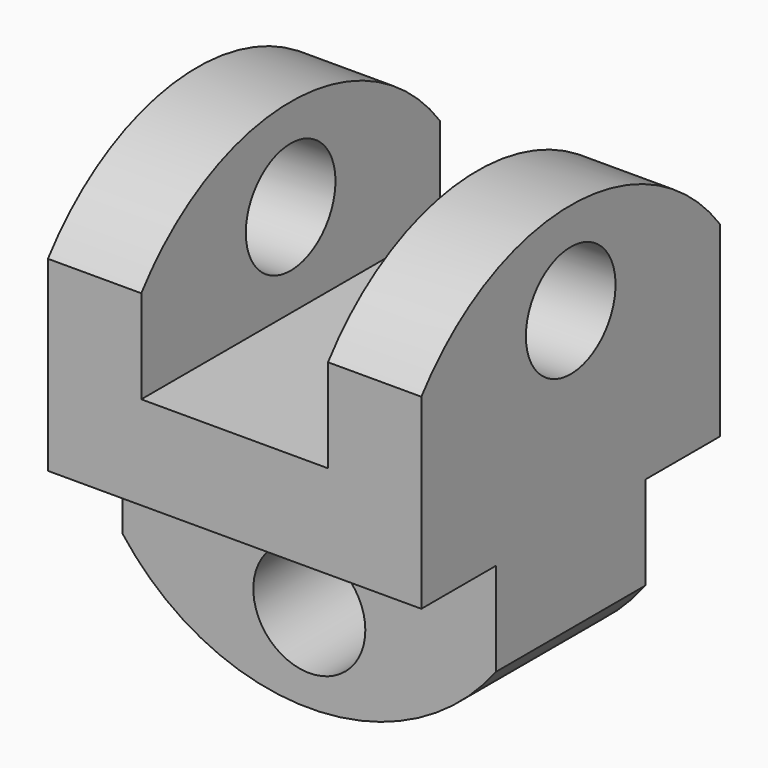
from build123d import *

# Parameters (mm, degrees)
F0_W     = 50.8
F0_H     = 25.4
F1_DEPTH = 12.7
F2_W     = 12.7
F2_H     = 50.8
F3_DEPTH = 25.4
F4_R     = 7.62
F5_DEPTH = 53.34
F6_DEPTH = 25.4
F7_R     = 7.62
F8_DEPTH = 25.4


with BuildPart() as f1:
    # F0 (on Top) → F1 (new body)
    with BuildSketch(Plane.XY):
        Polygon((-27.004177, 22.899404), (-39.704177, 22.899404), (-39.704177, 10.199404), (11.095823, 10.199404), (11.095823, 22.899404), (-1.604177, 22.899404), align=None)
        Polygon((11.095823, -15.200596), (-39.704177, -15.200596), (-39.704177, -27.900596), (-27.004177, -27.900596), (-1.604177, -27.900596), (11.095823, -27.900596), align=None)
        with Locations((-14.304177, -2.500596)):
            Rectangle(F0_W, F0_H)
    extrude(amount=F1_DEPTH)

    # F2 (on face) → F3 (join)
    with BuildSketch(Plane.XY.offset(12.7)):
        with Locations((-33.354177, -2.500596)):
            Rectangle(F2_W, F2_H)
        with Locations((4.745823, -2.500596)):
            Rectangle(F2_W, F2_H)
    extrude(amount=F3_DEPTH)

    # F4 (on face) → F5 (cut)
    with BuildSketch(Plane(origin=(-39.704177, 0, 0), x_dir=(0, -1, 0), z_dir=(-1, 0, 0))):
        with BuildLine():
            ThreePointArc((-22.899404, 25.4), (2.500596, 38.014124), (27.900596, 25.4))
            Line((27.900596, 25.4), (27.900596, 38.1))
            Line((27.900596, 38.1), (-22.899404, 38.1))
            Line((-22.899404, 38.1), (-22.899404, 25.4))
        make_face()
        with Locations((2.500596, 25.4)):
            Circle(F4_R)
    extrude(amount=-F5_DEPTH, mode=Mode.SUBTRACT)

    # F0 (on Top) → F6 (join)
    with BuildSketch(Plane.XY):
        with Locations((-14.304177, -2.500596)):
            Rectangle(F0_W, F0_H)
    extrude(amount=-F6_DEPTH)

    # F7 (on face) → F8 (cut)
    with BuildSketch(Plane.XZ.offset(15.200596)):
        with Locations((-14.304177, -13.500606)):
            Circle(F7_R)
        with BuildLine():
            ThreePointArc((11.095823, -12.7), (-14.304177, -25.326352), (-39.704177, -12.7))
            Line((-39.704177, -12.7), (-39.704177, -25.4))
            Line((-39.704177, -25.4), (11.095823, -25.4))
            Line((11.095823, -25.4), (11.095823, -12.7))
        make_face()
    extrude(amount=-F8_DEPTH, mode=Mode.SUBTRACT)


solid = f1.part
